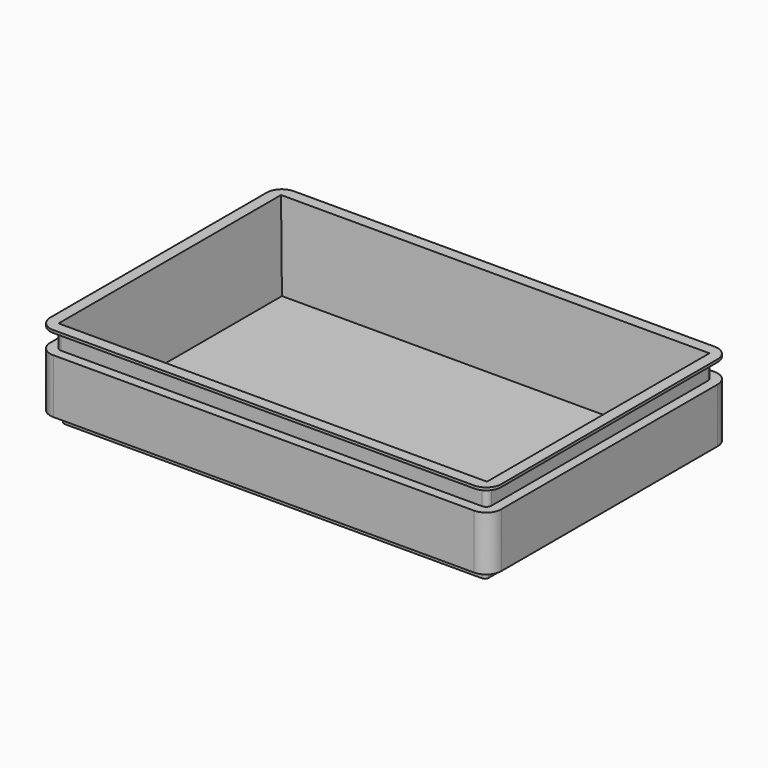
from build123d import *

# Parameters (mm, degrees)
F0_W     = 600
F0_H     = 400
F1_DEPTH = 117
F2_R     = 20
F4_DEPTH = 15
F7_DEPTH = 26
F8_W     = 570
F8_H     = 370
F9_DEPTH = 114
F9_TAPER = 3


with BuildPart() as f1:
    # F0 (on Top) → F1 (new body)
    with BuildSketch(Plane.XY):
        with Locations((8.6124254986, 0)):
            Rectangle(F0_W, F0_H)
    extrude(amount=F1_DEPTH)

    # F2
    f2_edges = [f1.edges().sort_by_distance(p)[0] for p in [
        (-291.387575, -200, 58.5),
        (308.612425, -200, 58.5),
        (308.612425, 200, 58.5),
        (-291.387575, 200, 58.5),
    ]]
    fillet(f2_edges, radius=F2_R)

    # F3 (on face) → F4 (cut)
    with BuildSketch(Plane(origin=(0, 0, 0), x_dir=(1, 0, 0), z_dir=(0, 0, -1))):
        with BuildLine():
            ThreePointArc((308.6124254986, 180), (302.7545611224, 194.1421356237), (288.6124254986, 200))
            Line((288.6124254986, 200), (-271.3875745014, 200))
            ThreePointArc((-271.3875745014, 200), (-285.5297101251, 194.1421356237), (-291.3875745014, 180))
            Line((-291.3875745014, 180), (-291.3875745014, -180))
            ThreePointArc((-291.3875745014, -180), (-285.5297101251, -194.1421356237), (-271.3875745014, -200))
            Line((-271.3875745014, -200), (288.6124254986, -200))
            ThreePointArc((288.6124254986, -200), (302.7545611224, -194.1421356237), (308.6124254986, -180))
            Line((308.6124254986, -180), (308.6124254986, 180))
        make_face()
        with BuildLine():
            ThreePointArc((-275.0983515568, 177.5), (-273.6338854627, 181.0355339059), (-270.0983515568, 182.5))
            Line((-270.0983515568, 182.5), (284.9016484432, 182.5))
            ThreePointArc((284.9016484432, 182.5), (288.4371823491, 181.0355339059), (289.9016484432, 177.5))
            Line((289.9016484432, 177.5), (289.9016484432, -177.5))
            ThreePointArc((289.9016484432, -177.5), (288.4371823491, -181.0355339059), (284.9016484432, -182.5))
            Line((284.9016484432, -182.5), (-270.0983515568, -182.5))
            ThreePointArc((-270.0983515568, -182.5), (-273.6338854627, -181.0355339059), (-275.0983515568, -177.5))
            Line((-275.0983515568, -177.5), (-275.0983515568, 177.5))
        make_face(mode=Mode.SUBTRACT)
    extrude(amount=-F4_DEPTH, mode=Mode.SUBTRACT)

    # F6 (on offset) → F7 (cut)
    with BuildSketch(Plane.XY.offset(113.5)):
        with BuildLine():
            ThreePointArc((-271.3875745014, 200), (-285.5297101251, 194.1421356237), (-291.3875745014, 180))
            Line((-291.3875745014, 180), (-291.3875745014, -180))
            ThreePointArc((-291.3875745014, -180), (-285.5297101251, -194.1421356237), (-271.3875745014, -200))
            Line((-271.3875745014, -200), (288.6124254986, -200))
            ThreePointArc((288.6124254986, -200), (302.7545611224, -194.1421356237), (308.6124254986, -180))
            Line((308.6124254986, -180), (308.6124254986, 180))
            ThreePointArc((308.6124254986, 180), (302.7545611224, 194.1421356237), (288.6124254986, 200))
            Line((288.6124254986, 200), (-271.3875745014, 200))
        make_face()
        with BuildLine():
            ThreePointArc((-278.3875745014, 180), (-276.3373219697, 184.9497474683), (-271.3875745014, 187))
            Line((-271.3875745014, 187), (288.6124254986, 187))
            ThreePointArc((288.6124254986, 187), (293.5621729669, 184.9497474683), (295.6124254986, 180))
            Line((295.6124254986, 180), (295.6124254986, -180))
            ThreePointArc((295.6124254986, -180), (293.5621729669, -184.9497474683), (288.6124254986, -187))
            Line((288.6124254986, -187), (-271.3875745014, -187))
            ThreePointArc((-271.3875745014, -187), (-276.3373219697, -184.9497474683), (-278.3875745014, -180))
            Line((-278.3875745014, -180), (-278.3875745014, 180))
        make_face(mode=Mode.SUBTRACT)
    extrude(amount=-F7_DEPTH, mode=Mode.SUBTRACT)

    # F8 (on face) → F9 (cut)
    with BuildSketch(Plane.XY.offset(117)):
        with Locations((8.6124254986, 0)):
            Rectangle(F8_W, F8_H)
    extrude(amount=-F9_DEPTH, taper=F9_TAPER, mode=Mode.SUBTRACT)


solid = f1.part
